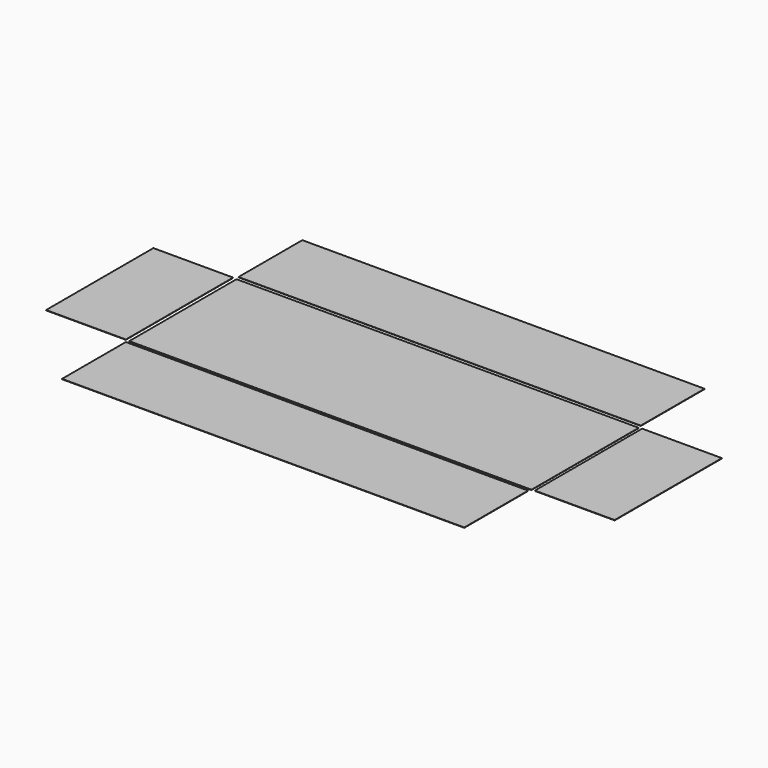
from build123d import *

# Parameters (mm, degrees)
F0_W     = 1200
F0_H     = 400
F1_DEPTH = 1
F3_W     = 1200
F3_H     = 238
F2_W     = 238
F2_H     = 400
F4_DEPTH = 1


with BuildPart() as f1:
    # F0 (on Top) → F1 (new body)
    with BuildSketch(Plane.XY):
        Rectangle(F0_W, F0_H)
    extrude(amount=F1_DEPTH)


with BuildPart() as f4:
    # F3 (on face) + F2 (on face) → F4 (new body)
    with BuildSketch(Plane.XY.offset(1)):
        with Locations((-2.095819, 329)):
            Rectangle(F3_W, F3_H)
        with Locations((-2.095819, -329)):
            Rectangle(F3_W, F3_H)
    with BuildSketch(Plane.XY.offset(1)):
        with Locations((-729, 0)):
            Rectangle(F2_W, F2_H)
        with Locations((729, 0)):
            Rectangle(F2_W, F2_H)
    extrude(amount=F4_DEPTH)


solid = Compound([f1.part, f4.part])
